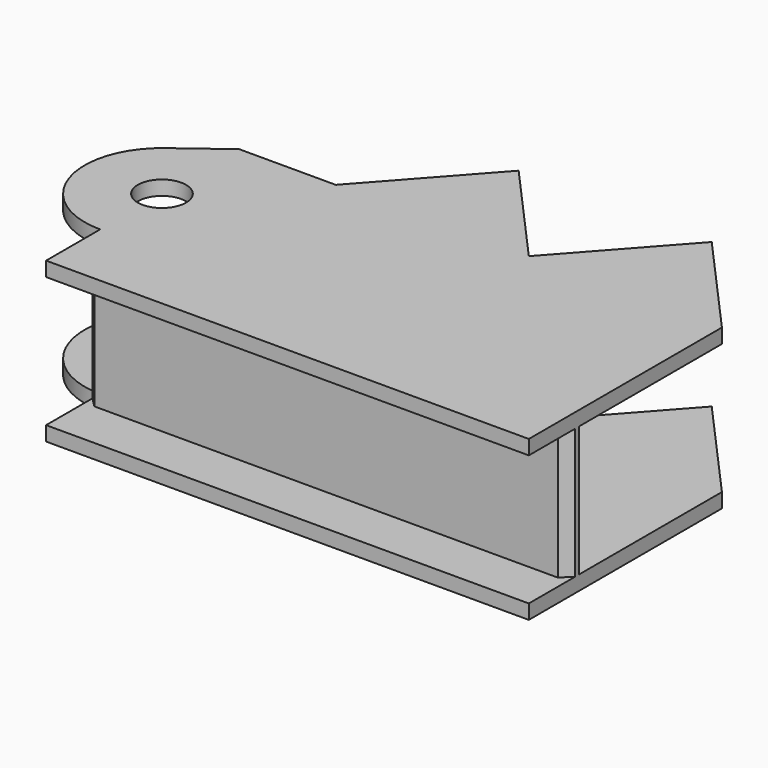
from build123d import *

# Parameters (mm, degrees)
F0_R      = 5
F1_DEPTH  = 33
F5_W      = 100
F5_H      = 3
F6_DEPTH  = 28
F7_W      = 100
F7_H      = 3
F8_DEPTH  = 10
F7_H_2    = 33
F13_DEPTH = 116.001
F14_W     = 100
F14_H     = 3
F15_DEPTH = 10
F18_DEPTH = 33.001
F21_DEPTH = 33.001
F24_DEPTH = 33.001
F25_SIZE  = 2


with BuildPart() as f1:
    # F0 (on Top) → F1 (new body)
    with BuildSketch(Plane.XY):
        with BuildLine():
            Line((21.777506699, 52.6698508731), (21.777506699, 56.6698508731))
            Line((21.777506699, 56.6698508731), (-78.222493301, 56.6698508731))
            Line((-78.222493301, 56.6698508731), (-78.222493301, 16.6698508731))
            Line((-78.222493301, 16.6698508731), (-58.222493301, -5.6908289019))
            Line((-58.222493301, -5.6908289019), (-38.222493301, 16.6698508731))
            Line((-38.222493301, 16.6698508731), (-18.222493301, -5.6908289019))
            Line((-18.222493301, -5.6908289019), (1.777506699, 16.6698508731))
            Line((1.777506699, 16.6698508731), (21.777506699, 16.6698508731))
            Line((21.777506699, 16.6698508731), (31.377506699, 23.8698508731))
            ThreePointArc((31.377506699, 23.8698508731), (36.9564394679, 41.7294951294), (21.777506699, 52.6698508731))
        make_face()
        with Locations((21.777506699, 36.6698508731)):
            Circle(F0_R, mode=Mode.SUBTRACT)
    extrude(amount=F1_DEPTH)


with BuildPart() as f2_1:
    # F2: copy of F1
    add(f1.part.moved(Location((0, 0, 28))))


with BuildPart() as f4_1:
    # F4: copy of F1
    add(f1.part.moved(Location((0, 0, 34))))


with BuildPart() as f6:
    # F5 (on face) → F6 (new body)
    with BuildSketch(Plane.XY.offset(33)):
        with Locations((-28.222493301, 55.1698508731)):
            Rectangle(F5_W, F5_H)
    extrude(amount=F6_DEPTH)


with BuildPart() as f8:
    # F7 (on face) → F8 (new body)
    with BuildSketch(Plane(origin=(0, 56.6698508731, 0), x_dir=(-1, 0, 0), z_dir=(0, 1, 0))):
        with Locations((28.222493301, 62.5)):
            Rectangle(F7_W, F7_H)
    extrude(amount=F8_DEPTH)


with BuildPart() as f8b:
    # F7 (on face) → F8, piece 2 (new body)
    with BuildSketch(Plane(origin=(0, 56.6698508731, 0), x_dir=(-1, 0, 0), z_dir=(0, 1, 0))):
        with Locations((28.222493301, 16.5)):
            Rectangle(F7_W, F7_H_2)
    extrude(amount=F8_DEPTH)


with BuildPart() as f1_1:
    add(f1.part)

    # F12 (on face) → F13 (cut, through all)
    with BuildSketch(Plane(origin=(-78.222493301, 0, 0), x_dir=(0, -1, 0), z_dir=(-1, 0, 0))):
        Polygon((15.5293103307, 30), (-53.6698508731, 30), (-53.6698508731, 3), (13.7041052803, 3), align=None)
    extrude(amount=-F13_DEPTH, mode=Mode.SUBTRACT)

    # F14 (on face) → F15 (join)
    with BuildSketch(Plane(origin=(0, 56.6698508731, 0), x_dir=(-1, 0, 0), z_dir=(0, 1, 0))):
        with Locations((28.222493301, 1.5)):
            Rectangle(F14_W, F14_H)
        with Locations((28.222493301, 31.5)):
            Rectangle(F14_W, F14_H)
    extrude(amount=F15_DEPTH)

    # F16: F1 across face


with BuildPart() as f1_2:
    add(f1_1.part)
    add(f1_1.part.mirror(Plane(origin=(-78.222493301, 44.5399296132, 16.5), x_dir=(0, -1, 0), z_dir=(-1, 0, 0))))

    # F17 (on face) → F18 (cut, through all)
    with BuildSketch(Plane.XY.offset(33)):
        Polygon((-78.222493301, 86.7001339793), (-78.222493301, 16.6698508731), (-78.222493301, -27.7220606804), (68.2113543153, -27.7220606804), (68.2113543153, 86.7001339793), align=None)
    extrude(amount=-F18_DEPTH, mode=Mode.SUBTRACT)

    # F19: F1 across face


with BuildPart() as f1_3:
    add(f1_2.part)
    add(f1_2.part.mirror(Plane(origin=(-78.222493301, 44.5399296132, 16.5), x_dir=(0, 1, 0), z_dir=(1, 0, 0))))

    # F20 (on face) → F21 (cut, through all)
    with BuildSketch(Plane.XY.offset(33)):
        Polygon((54.2253777385, 66.6698508731), (-78.222493301, 66.6698508731), (-78.222493301, -28.4001789987), (54.2253777385, -31.8515859544), align=None)
    extrude(amount=-F21_DEPTH, mode=Mode.SUBTRACT)

    # F22: F1 across face


with BuildPart() as f1_4:
    add(f1_3.part)
    add(f1_3.part.mirror(Plane(origin=(-128.222493301, 66.6698508731, 31.5), x_dir=(-1, 0, 0), z_dir=(0, 1, 0))))

    # F23 (on face) → F24 (cut, through all)
    with BuildSketch(Plane.XY.offset(33)):
        Polygon((-78.222493301, -18.2117372751), (-78.222493301, 66.6698508731), (-239.6576553583, 66.6698508731), (-202.1560966969, -18.2117372751), align=None)
    extrude(amount=-F24_DEPTH, mode=Mode.SUBTRACT)

    # F25
    f25_edges = [f1_4.edges().sort_by_distance(p)[0] for p in [
        (-178.222493, 76.669851, 16.5),
        (-78.222493, 76.669851, 16.5),
    ]]
    chamfer(f25_edges, length=F25_SIZE)


solid = f1_4.part
